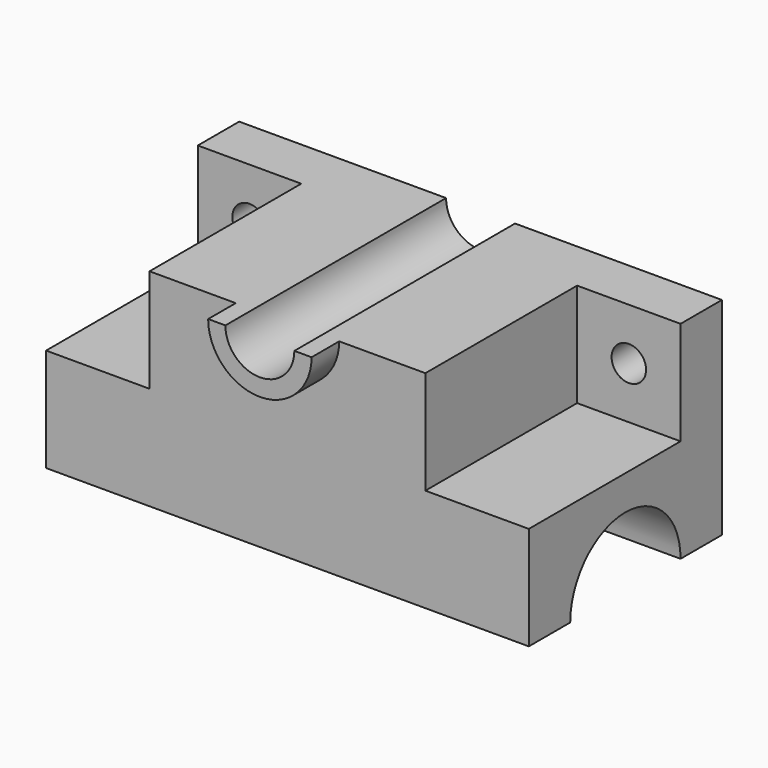
from build123d import *

# Parameters (mm, degrees)
F0_W      = 140
F0_H      = 60
F1_DEPTH  = 70
F3_DEPTH  = 165
F4_W      = 30
F4_H      = 30
F5_DEPTH  = 55
F6_W      = 30
F6_H      = 30
F7_DEPTH  = 55
F8_R      = 5
F9_DEPTH  = 40
F10_R     = 5
F11_DEPTH = 40
F13_DEPTH = 100
F14_DEPTH = 10


with BuildPart() as f1:
    # F0 (on Front) → F1 (new body)
    with BuildSketch(Plane.XZ):
        Rectangle(F0_W, F0_H)
    extrude(amount=F1_DEPTH)

    # F2 (on face) → F3 (cut, symmetric)
    with BuildSketch(Plane.YZ.offset(70)):
        with BuildLine():
            Line((-55, -30), (-15, -30))
            ThreePointArc((-15, -30), (-35, -10), (-55, -30))
        make_face()
    extrude(amount=F3_DEPTH, both=True, mode=Mode.SUBTRACT)

    # F4 (on face) → F5 (cut)
    with BuildSketch(Plane.XZ.offset(70)):
        with Locations((55, 15)):
            Rectangle(F4_W, F4_H)
    extrude(amount=-F5_DEPTH, mode=Mode.SUBTRACT)

    # F6 (on face) → F7 (cut)
    with BuildSketch(Plane.XZ.offset(70)):
        with Locations((-55, 15)):
            Rectangle(F6_W, F6_H)
    extrude(amount=-F7_DEPTH, mode=Mode.SUBTRACT)

    # F8 (on face) → F9 (cut)
    with BuildSketch(Plane.XZ.offset(15)):
        with Locations((55, 15)):
            Circle(F8_R)
    extrude(amount=-F9_DEPTH, mode=Mode.SUBTRACT)

    # F10 (on face) → F11 (cut)
    with BuildSketch(Plane.XZ.offset(15)):
        with Locations((-55, 15)):
            Circle(F10_R)
    extrude(amount=-F11_DEPTH, mode=Mode.SUBTRACT)

    # F12 (on face) → F13 (cut)
    with BuildSketch(Plane.XZ.offset(70)):
        with BuildLine():
            ThreePointArc((-10, 30), (0, 20), (10, 30))
            Line((10, 30), (-10, 30))
        make_face()
        with BuildLine():
            Line((-10, 30), (10, 30))
            ThreePointArc((10, 30), (0, 40), (-10, 30))
        make_face()
        with BuildLine():
            ThreePointArc((-10, 30), (0, 40), (10, 30))
            Line((10, 30), (15, 30))
            ThreePointArc((15, 30), (0, 45), (-15, 30))
            Line((-15, 30), (-10, 30))
        make_face()
    extrude(amount=-F13_DEPTH, mode=Mode.SUBTRACT)

    # F12 (on face) → F14 (join)
    with BuildSketch(Plane.XZ.offset(70)):
        with BuildLine():
            Line((15, 30), (10, 30))
            ThreePointArc((10, 30), (0, 20), (-10, 30))
            Line((-10, 30), (-15, 30))
            ThreePointArc((-15, 30), (0, 15), (15, 30))
        make_face()
    extrude(amount=F14_DEPTH)


solid = f1.part
